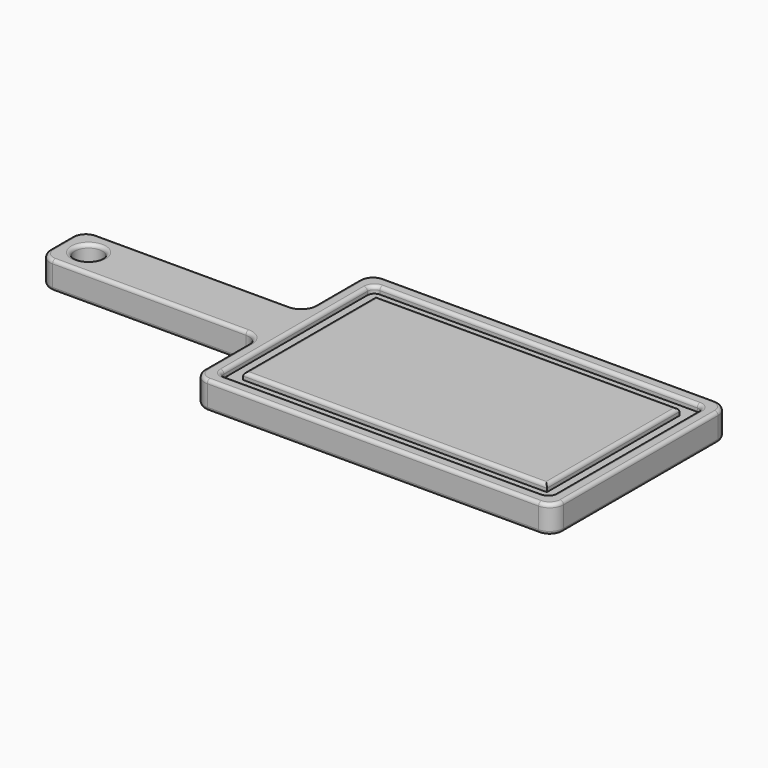
from build123d import *

# Parameters (mm, degrees)
F0_W     = 203.2
F0_H     = 50.8
F1_DEPTH = 25.4
F2_R     = 12.7
F3_DEPTH = 25.4
F5_DEPTH = 6.35
F6_R     = 6.35
F7_R     = 12.7
F8_R     = 3.175


with BuildPart() as f1:
    # F0 (on Top) → F1 (new body)
    with BuildSketch(Plane.XY):
        Polygon((0, 76.2), (0, 0), (330.2, 0), (330.2, 203.2), (0, 203.2), (0, 127), align=None)
        with Locations((-101.6, 101.6)):
            Rectangle(F0_W, F0_H)
    extrude(amount=F1_DEPTH)

    # F2 (on face) → F3 (cut)
    with BuildSketch(Plane.XY.offset(25.4)):
        with Locations((-177.8, 101.6)):
            Circle(F2_R)
    extrude(amount=-F3_DEPTH, mode=Mode.SUBTRACT)

    # F4 (on face) → F5 (cut)
    with BuildSketch(Plane.XY.offset(25.4)):
        Polygon((12.7, 76.2), (12.7, 12.7), (317.5, 12.7), (317.5, 190.5), (12.7, 190.5), (12.7, 127), align=None)
        Polygon((25.4, 76.2), (25.4, 127), (25.4, 177.8), (304.8, 177.8), (304.8, 25.4), (25.4, 25.4), align=None, mode=Mode.SUBTRACT)
    extrude(amount=-F5_DEPTH, mode=Mode.SUBTRACT)

    # F6
    f6_edges = [f1.edges().sort_by_distance(p)[0] for p in [
        (12.7, 190.5, 22.225),
        (317.5, 190.5, 22.225),
        (317.5, 12.7, 22.225),
        (12.7, 12.7, 22.225),
    ]]
    fillet(f6_edges, radius=F6_R)

    # F7
    f7_edges = [f1.edges().sort_by_distance(p)[0] for p in [
        (0, 203.2, 12.7),
        (0, 127, 12.7),
        (-203.2, 127, 12.7),
        (-203.2, 76.2, 12.7),
        (0, 76.2, 12.7),
        (0, 0, 12.7),
        (330.2, 203.2, 12.7),
        (330.2, 0, 12.7),
    ]]
    fillet(f7_edges, radius=F7_R)

    # F8
    f8_edges = [f1.edges().sort_by_distance(p)[0] for p in [
        (165.1, 177.8, 25.4),
        (304.8, 101.6, 25.4),
        (165.1, 25.4, 25.4),
        (25.4, 101.6, 25.4),
        (0, 38.1, 25.4),
        (-3.719744, 72.480256, 25.4),
        (3.719744, 3.719744, 25.4),
        (-101.6, 76.2, 25.4),
        (165.1, 0, 25.4),
        (-199.480256, 79.919744, 25.4),
        (326.480256, 3.719744, 25.4),
        (-203.2, 101.6, 25.4),
        (330.2, 101.6, 25.4),
        (-199.480256, 123.280256, 25.4),
        (326.480256, 199.480256, 25.4),
        (-101.6, 127, 25.4),
        (165.1, 203.2, 25.4),
        (-3.719744, 130.719744, 25.4),
        (3.719744, 199.480256, 25.4),
        (0, 165.1, 25.4),
        (165.1, 12.7, 25.4),
        (14.559872, 14.559872, 25.4),
        (315.640128, 14.559872, 25.4),
        (12.7, 101.6, 25.4),
        (317.5, 101.6, 25.4),
        (14.559872, 188.640128, 25.4),
        (315.640128, 188.640128, 25.4),
        (165.1, 190.5, 25.4),
        (-190.5, 101.6, 25.4),
        (0, 38.1, 0),
        (-3.719744, 72.480256, 0),
        (3.719744, 3.719744, 0),
        (-101.6, 76.2, 0),
        (165.1, 0, 0),
        (-199.480256, 79.919744, 0),
        (326.480256, 3.719744, 0),
        (-203.2, 101.6, 0),
        (330.2, 101.6, 0),
        (-199.480256, 123.280256, 0),
        (326.480256, 199.480256, 0),
        (-101.6, 127, 0),
        (165.1, 203.2, 0),
        (-3.719744, 130.719744, 0),
        (3.719744, 199.480256, 0),
        (0, 165.1, 0),
        (-190.5, 101.6, 0),
    ]]
    fillet(f8_edges, radius=F8_R)


solid = f1.part
